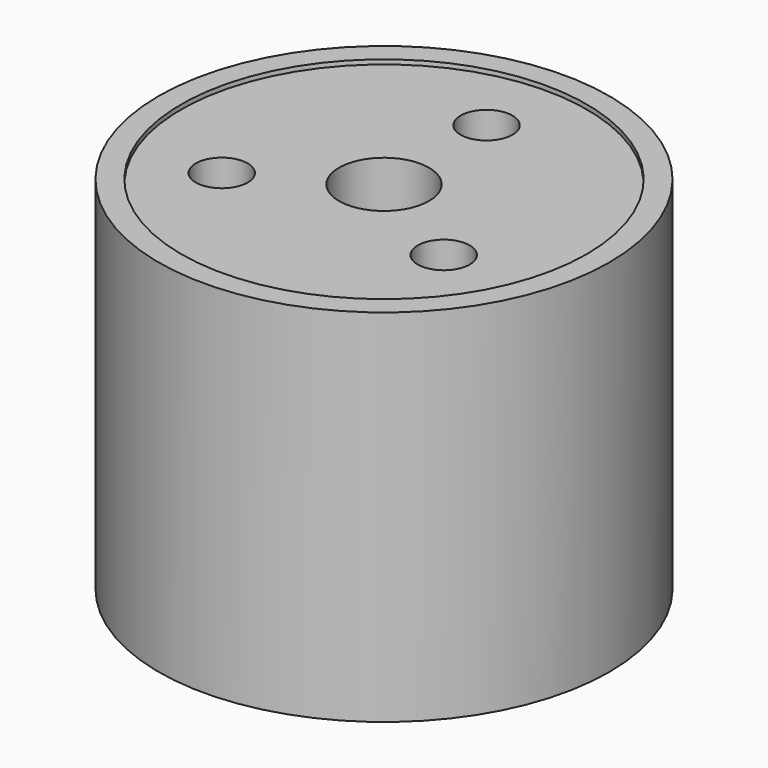
from build123d import *

# Parameters (mm, degrees)
F0_R     = 2.25
F0_R_2   = 0.288014
F0_R_3   = 0.5
F1_DEPTH = 1.95
F0_R_4   = 2.5
F2_DEPTH = 2


with BuildPart() as f1:
    # F0 (on Top) → F1 (new body, symmetric)
    with BuildSketch(Plane.XY):
        Circle(F0_R)
        with Locations((-1.231394, -0.710946)):
            Circle(F0_R_2, mode=Mode.SUBTRACT)
        with Locations((1.231394, -0.710946)):
            Circle(F0_R_2, mode=Mode.SUBTRACT)
        Circle(F0_R_3, mode=Mode.SUBTRACT)
        with Locations((0, 1.421891)):
            Circle(F0_R_2, mode=Mode.SUBTRACT)
    extrude(amount=F1_DEPTH, both=True)

    # F0 (on Top) → F2 (join, symmetric)
    with BuildSketch(Plane.XY):
        Circle(F0_R_4)
        Circle(F0_R, mode=Mode.SUBTRACT)
    extrude(amount=F2_DEPTH, both=True)


solid = f1.part
